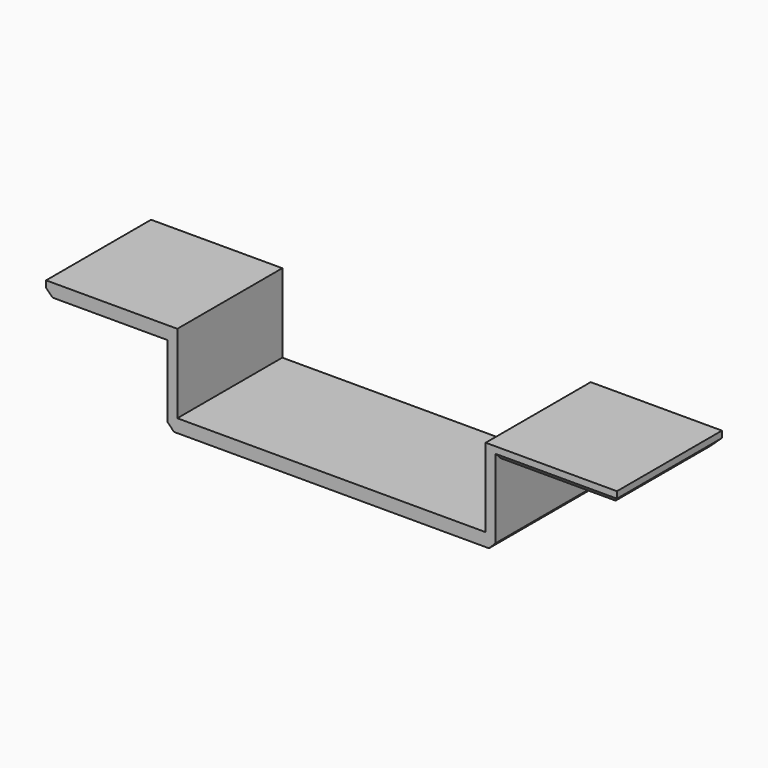
from build123d import *

# Parameters (mm, degrees)
F0_W     = 50
F0_H     = 20
F1_DEPTH = 2
F2_W     = 1.5
F2_H     = 20
F3_DEPTH = 10
F4_W     = 20
F4_H     = 20
F5_DEPTH = 2
F6_SIZE  = 1


with BuildPart() as f1:
    # F0 (on Top) → F1 (new body)
    with BuildSketch(Plane.XY):
        Rectangle(F0_W, F0_H)
    extrude(amount=F1_DEPTH)

    # F2 (on face) → F3 (join)
    with BuildSketch(Plane.XY.offset(2)):
        with Locations((-24.25, 0)):
            Rectangle(F2_W, F2_H)
        with Locations((24.25, 0)):
            Rectangle(F2_W, F2_H)
    extrude(amount=F3_DEPTH)

    # F4 (on face) → F5 (join)
    with BuildSketch(Plane.XY.offset(12)):
        with Locations((-33.5, 0)):
            Rectangle(F4_W, F4_H)
        with Locations((33.5, 0)):
            Rectangle(F4_W, F4_H)
    extrude(amount=F5_DEPTH)

    # F6
    f6_edges = [f1.edges().sort_by_distance(p)[0] for p in [
        (-25, 0, 0),
        (25, 0, 0),
        (-43.5, 0, 12),
        (43.5, 0, 12),
        (34.25, -10, 12),
        (34.25, 10, 12),
        (-34.25, 10, 12),
    ]]
    chamfer(f6_edges, length=F6_SIZE)


solid = f1.part
